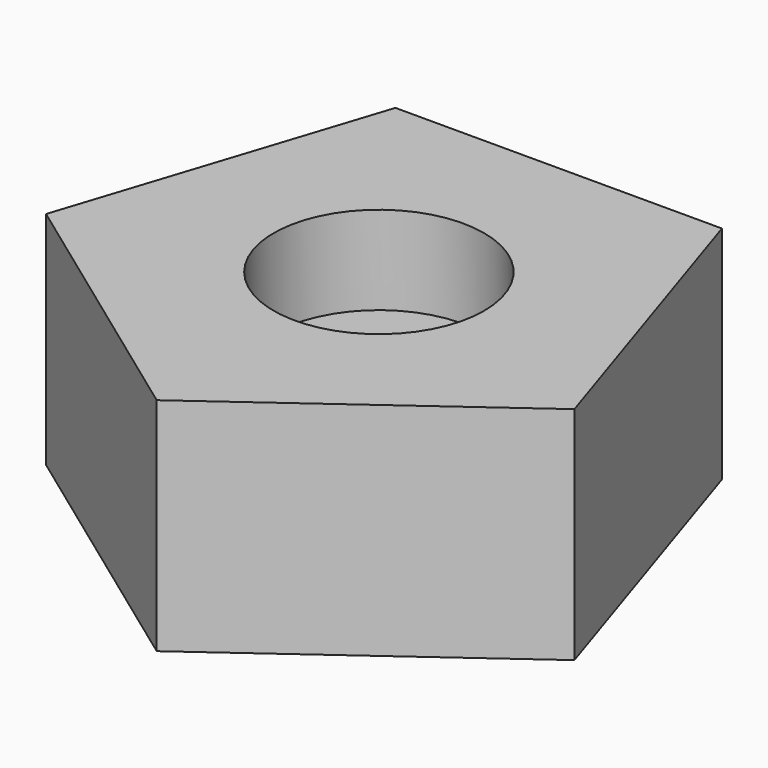
from build123d import *

# Parameters (mm, degrees)
F1_DEPTH = 25
F2_R     = 11.905945
F3_DEPTH = 10


with BuildPart() as f1:
    # F0 (on Top) → F1 (new body)
    with BuildSketch(Plane.XY):
        Polygon((29.887344, -9.710987), (18.471394, 25.423693), (-18.471394, 25.423693), (-29.887344, -9.710987), (0, -31.425413), align=None)
    extrude(amount=F1_DEPTH)

    # F2 (on face) → F3 (cut)
    with BuildSketch(Plane.XY.offset(25)):
        Circle(F2_R)
    extrude(amount=-F3_DEPTH, mode=Mode.SUBTRACT)


solid = f1.part
